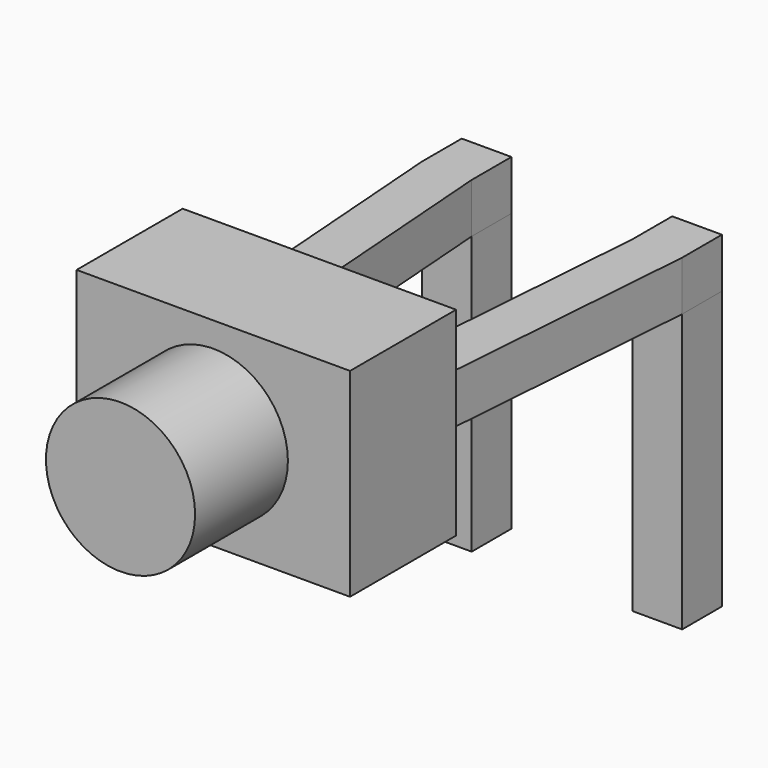
from build123d import *

# Parameters (mm, degrees)
SKETCH_W       = 0.6
SKETCH_H       = 0.6
PAD_DEPTH      = 1.35
PAD_DEPTH_BACK = 2
PAD001_DEPTH   = 0.6
SKETCH002_W    = 2.54
SKETCH002_H    = 0.6
PAD002_DEPTH   = 1
SKETCH004_W    = 3.3
SKETCH004_H    = 2.4
PAD003_DEPTH   = 1.6
SKETCH006_R    = 0.9
PAD004_DEPTH   = 1.4


with BuildPart() as pad:
    # Sketch → Pad (new body, two sides)
    with BuildSketch(Plane.XY) as pad_sk:
        Rectangle(SKETCH_W, SKETCH_H)
        with Locations((2.54, 0)):
            Rectangle(SKETCH_W, SKETCH_H)
    extrude(amount=PAD_DEPTH)
    extrude(pad_sk.sketch, amount=-PAD_DEPTH_BACK)


with BuildPart() as pad001:
    # Sketch001 → Pad001 (new body)
    with BuildSketch(Plane.XY.offset(1.35)):
        Polygon((0.3, 0.3), (-0.3, 0.3), (-0.3, -0.3), (0, -4.31), (0.6, -4.31), (0.3, -0.3), align=None)
        Polygon((2.84, 0.3), (2.24, 0.3), (2.24, -0.3), (1.94, -4.31), (2.54, -4.31), (2.84, -0.3), align=None)
    extrude(amount=PAD001_DEPTH)


with BuildPart() as pad002:
    # Sketch002 → Pad002 (new body)
    with BuildSketch(Plane.XZ.offset(4.31)):
        with Locations((1.27, 1.65)):
            Rectangle(SKETCH002_W, SKETCH002_H)
    extrude(amount=PAD002_DEPTH)


with BuildPart() as revolution001:
    # Sketch005 → Revolution001 (revolve)
    with BuildSketch(Plane.YZ.offset(1.27)):
        Polygon((-5.01, 1.65), (-5.51, 1.65), (-5.51, 2.15), align=None)
    revolve(axis=Axis((1.27, -3.977201, 1.65), (0, -1, 0)))


with BuildPart() as pad004:
    # Sketch004 → Pad003 (new body)
    with BuildSketch(Plane.XZ.offset(3.81)):
        with Locations((1.27, 1.65)):
            Rectangle(SKETCH004_W, SKETCH004_H)
    extrude(amount=PAD003_DEPTH)

    # Sketch006 → Pad004 (new body)
    with BuildSketch(Plane.XZ.offset(5.41)):
        with Locations((1.27, 1.65)):
            Circle(SKETCH006_R)
    extrude(amount=PAD004_DEPTH)


solid = Compound([pad.part, pad001.part, pad002.part, revolution001.part, pad004.part])
